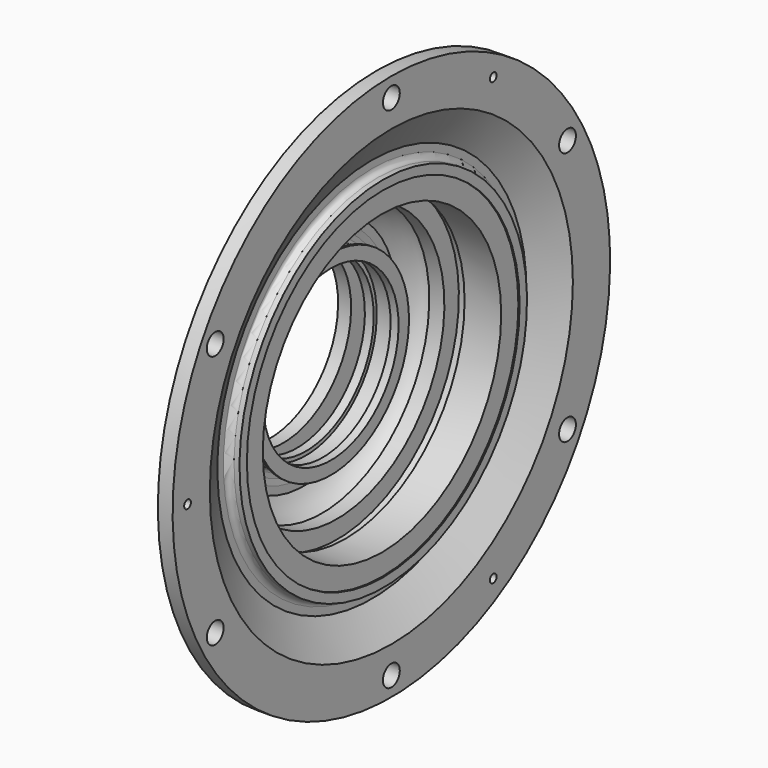
from build123d import *

# Parameters (mm, degrees)
F3_D = 25
F5_D = 10


with BuildPart() as f1:
    # F0 (on Front) → F1 (revolve)
    with BuildSketch(Plane.XZ):
        with BuildLine():
            Line((-0.009005, 269.665435), (0, 325))
            Line((0, 325), (-17.5, 325))
            Line((-17.5, 325), (-17.5, 278))
            Line((-17.5, 278), (-39, 278))
            ThreePointArc((-39, 278), (-44.656854, 275.656854), (-47, 270))
            ThreePointArc((-47, 270), (-44.656854, 264.343146), (-39, 262))
            Line((-39, 262), (-23.5, 262))
            Line((-23.5, 262), (-23.5, 251))
            Line((-23.5, 251), (-36.25, 228.916352))
            Line((-36.25, 228.916352), (-47.25, 228.916352))
            Line((-47.25, 228.916352), (-138.411471, 141.213238))
            Line((-138.411471, 141.213238), (-138.411471, 123.213238))
            Line((-138.411471, 123.213238), (-143.911471, 119.749136))
            Line((-143.911471, 119.749136), (-143.911471, 100.749136))
            Line((-143.911471, 100.749136), (-128.411471, 100.749136))
            Line((-128.411471, 100.749136), (-128.411471, 133.249136))
            ThreePointArc((-128.411471, 133.249136), (-126.654111, 137.491777), (-122.411471, 139.249136))
            Line((-122.411471, 139.249136), (-117.911471, 139.249136))
            ThreePointArc((-117.911471, 139.249136), (-113.66883, 137.491777), (-111.911471, 133.249136))
            Line((-111.911471, 133.249136), (-111.911471, 100.543074))
            Line((-111.911471, 100.543074), (-101.411471, 100.543074))
            Line((-101.411471, 100.543074), (-101.411471, 105.043074))
            Line((-101.411471, 105.043074), (-83.911471, 105.043074))
            Line((-83.911471, 105.043074), (-81.368759, 100.543074))
            Line((-81.368759, 100.543074), (-71.868759, 100.543074))
            Line((-71.868759, 100.543074), (-71.868759, 116.043074))
            Line((-71.868759, 116.043074), (-74.368759, 116.043074))
            Line((-74.368759, 116.043074), (-79.263203, 111.043074))
            Line((-79.263203, 111.043074), (-96.263203, 111.043074))
            Line((-96.263203, 111.043074), (-99.763203, 111.043074))
            ThreePointArc((-99.763203, 111.043074), (-102.59163, 112.214647), (-103.763203, 115.043074))
            Line((-103.763203, 115.043074), (-103.763203, 120.543074))
            Line((-103.763203, 120.543074), (-102.939481, 127.49444))
            Line((-102.939481, 127.49444), (-102.939481, 136.99444))
            ThreePointArc((-102.939481, 136.99444), (-94.526258, 149.857035), (-82.640115, 159.601178))
            Line((-82.640115, 159.601178), (-64.640115, 159.601178))
            Line((-64.640115, 159.601178), (-64.640115, 181.101178))
            Line((-64.640115, 181.101178), (-54.640115, 181.101178))
            Line((-54.640115, 181.101178), (-54.640115, 177.101178))
            Line((-54.640115, 177.101178), (-11.140115, 177.101178))
            Line((-11.140115, 177.101178), (-11.140115, 202.601178))
            Line((-11.140115, 202.601178), (-9.640115, 202.601178))
            Line((-9.640115, 202.601178), (-9.640115, 213.601178))
            Line((-9.640115, 213.601178), (-16.140115, 213.601178))
            ThreePointArc((-16.140115, 213.601178), (-21.089862, 215.65143), (-23.140115, 220.601178))
            Line((-23.140115, 220.601178), (-23.140115, 229.601178))
            Line((-23.140115, 229.601178), (-0.009005, 269.665435))
        make_face()
    revolve(axis=Axis((37.531334, 0, 0), (1, 0, 0)))

    # F3 (through all)
    with Locations(Plane(origin=(-17.5, 0, 0), x_dir=(0, -1, 0), z_dir=(-1, 0, 0))):
        with Locations((0, 302.160249), (-261.678452, 151.080125), (261.678452, 151.080125), (261.678452, -151.080125), (0, -302.160249), (-261.678452, -151.080125)):
            Hole(F3_D / 2)

    # F5 (through all)
    with Locations(Plane(origin=(-17.5, 0, 0), x_dir=(0, -1, 0), z_dir=(-1, 0, 0))):
        with Locations((302.802533, 0), (-151.401266, -262.234686), (-151.401266, 262.234686)):
            Hole(F5_D / 2)


solid = f1.part
